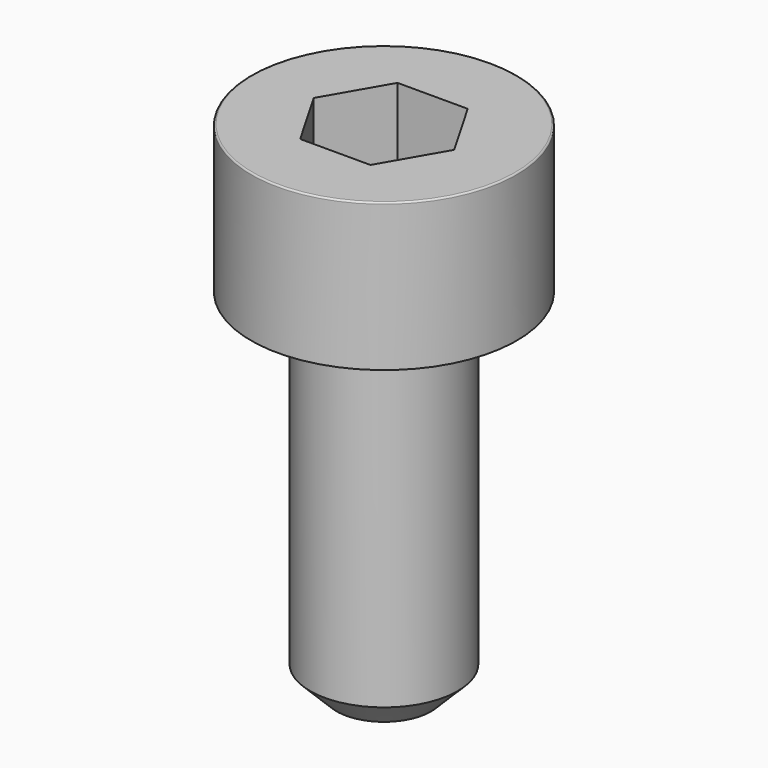
from build123d import *

# Parameters (mm, degrees)
POCKET_DEPTH = 2.06


with BuildPart() as part:
    # Sketch → Revolve (revolve)
    with BuildSketch(Plane.YZ):
        with BuildLine():
            Line((1.249, 0), (2.25, 0))
            Line((2.25, 0), (2.25, 2.47229))
            ThreePointArc((2.25, 2.47229), (2.241884, 2.491884), (2.22229, 2.5))
            Line((2.22229, 2.5), (0, 2.5))
            Line((0, -6), (0, 2.5))
            Line((0.8, -6), (0, -6))
            Line((1.25, -5.55), (0.8, -6))
            Line((1.25, -0.2), (1.25, -5.55))
            Line((1.249, 0), (1.25, -0.2))
        make_face()
    revolve(axis=Axis((0, 0, 0), (0, 0, 1)))

    # Sketch001 → Pocket (cut)
    with BuildSketch(Plane.XY.offset(2.5)):
        Polygon((1.189342, 0), (0.594671, 1.03), (-0.594671, 1.03), (-1.189342, 0), (-0.594671, -1.03), (0.594671, -1.03), align=None)
    extrude(amount=-POCKET_DEPTH, mode=Mode.SUBTRACT)


solid = part.part
